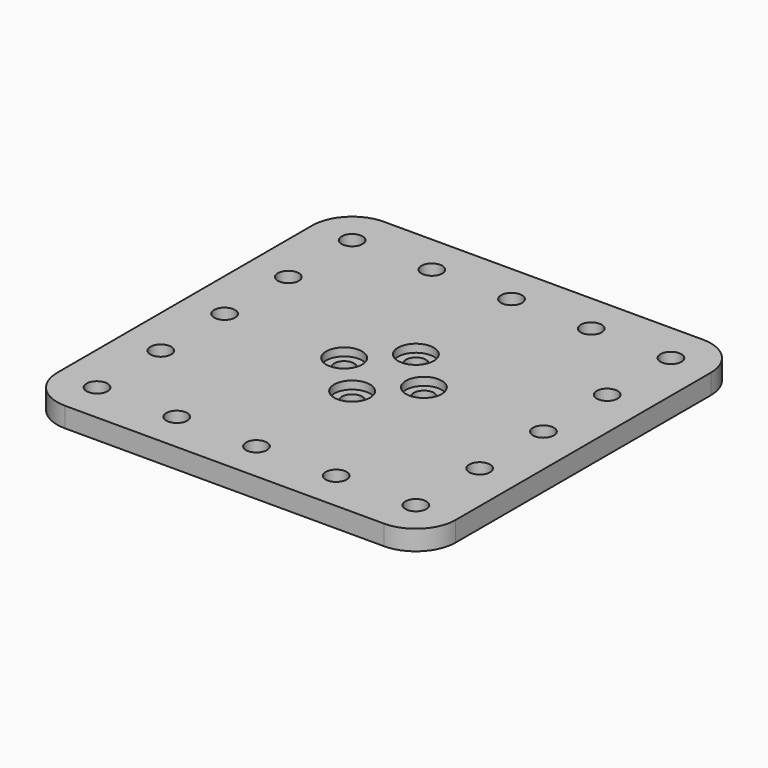
from build123d import *

# Parameters (mm, degrees)
SKETCH_W        = 100
SKETCH_H        = 100
PAD_DEPTH       = 5
SKETCH001_R     = 4.5
POCKET_DEPTH    = 2
SKETCH002_R     = 2.5
POCKET001_DEPTH = 3
SKETCH003_R     = 2.625
POCKET002_DEPTH = 5
FILLET_R        = 10


with BuildPart() as part:
    # Sketch → Pad (new body)
    with BuildSketch(Plane.XY):
        Rectangle(SKETCH_W, SKETCH_H)
    extrude(amount=PAD_DEPTH)

    # Sketch001 (on Face6 of Pad) → Pocket (cut)
    with BuildSketch(Plane.XY.offset(5)):
        with Locations((0, 10)):
            Circle(SKETCH001_R)
        with Locations((10, 0)):
            Circle(SKETCH001_R)
        with Locations((-10, 0)):
            Circle(SKETCH001_R)
        with Locations((0, -10)):
            Circle(SKETCH001_R)
    extrude(amount=-POCKET_DEPTH, mode=Mode.SUBTRACT)

    # Sketch002 (on Face4 of Pocket) → Pocket001 (cut)
    with BuildSketch(Plane(origin=(0, 0, 0), x_dir=(1, 0, 0), z_dir=(0, 0, -1))):
        with Locations((0, 10)):
            Circle(SKETCH002_R)
        with Locations((10, 0)):
            Circle(SKETCH002_R)
        with Locations((0, -10)):
            Circle(SKETCH002_R)
        with Locations((-10, 0)):
            Circle(SKETCH002_R)
    extrude(amount=-POCKET001_DEPTH, mode=Mode.SUBTRACT)

    # Sketch003 (on Face5 of Pocket001) → Pocket002 (cut)
    with BuildSketch(Plane.XY.offset(5)):
        with Locations((-40, 0)):
            Circle(SKETCH003_R)
        with Locations((-40, -40)):
            Circle(SKETCH003_R)
        with Locations((-40, -20)):
            Circle(SKETCH003_R)
        with Locations((-20, -40)):
            Circle(SKETCH003_R)
        with Locations((0, -40)):
            Circle(SKETCH003_R)
        with Locations((20, -40)):
            Circle(SKETCH003_R)
        with Locations((40, -40)):
            Circle(SKETCH003_R)
        with Locations((40, -20)):
            Circle(SKETCH003_R)
        with Locations((40, 0)):
            Circle(SKETCH003_R)
        with Locations((40, 20)):
            Circle(SKETCH003_R)
        with Locations((40, 40)):
            Circle(SKETCH003_R)
        with Locations((20, 40)):
            Circle(SKETCH003_R)
        with Locations((0, 40)):
            Circle(SKETCH003_R)
        with Locations((-20, 40)):
            Circle(SKETCH003_R)
        with Locations((-40, 40)):
            Circle(SKETCH003_R)
        with Locations((-40, 20)):
            Circle(SKETCH003_R)
    extrude(amount=-POCKET002_DEPTH, mode=Mode.SUBTRACT)

    # Fillet
    fillet_edges = [part.edges().sort_by_distance(p)[0] for p in [
        (-50, 50, 2.5),
        (50, 50, 2.5),
        (50, -50, 2.5),
        (-50, -50, 2.5),
    ]]
    fillet(fillet_edges, radius=FILLET_R)


solid = part.part
